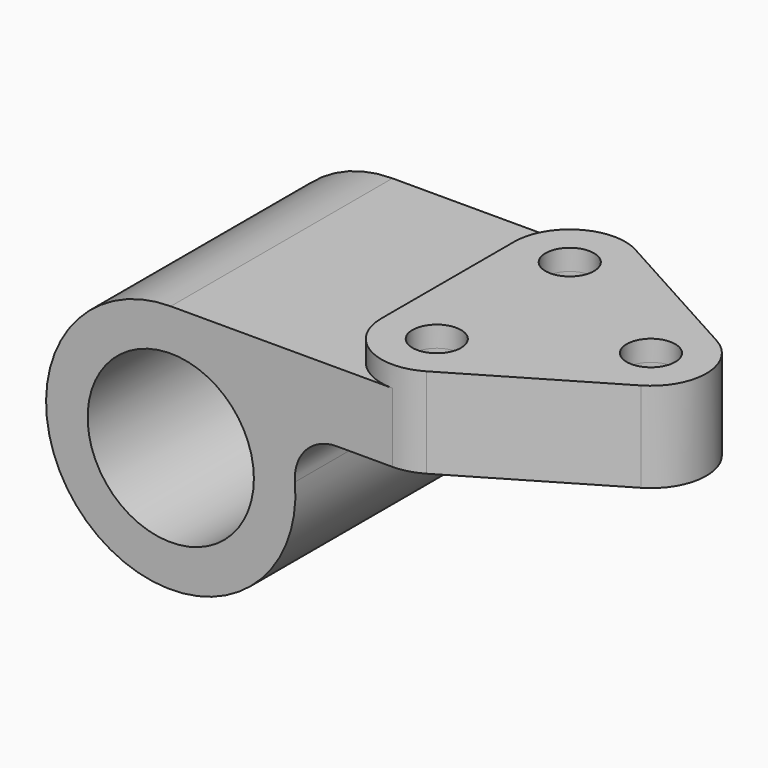
from build123d import *

# Parameters (mm, degrees)
F0_R     = 19.05
F1_DEPTH = 31.75
F2_R     = 5.5626
F3_DEPTH = 4.7752
F4_DEPTH = 57.151


with BuildPart() as f1:
    # F0 (on Front) → F1 (new body, symmetric)
    with BuildSketch(Plane.XZ):
        with BuildLine():
            Line((139.5674778593, 28.575), (0, 28.575))
            ThreePointArc((0, 28.575), (-19.345366451, -21.0306305629), (28.4756083945, 2.38125))
            ThreePointArc((28.4756083945, 2.38125), (30.9572676717, 9.6234554837), (37.9674778593, 12.7))
            Line((37.9674778593, 12.7), (139.5674778593, 12.7))
            Line((139.5674778593, 12.7), (139.5674778593, 28.575))
        make_face()
        Circle(F0_R, mode=Mode.SUBTRACT)
    extrude(amount=F1_DEPTH, both=True)

    # F2 (on face) → F3 (join)
    with BuildSketch(Plane.XY.offset(28.575)):
        with BuildLine():
            ThreePointArc((56.9407035424, 30.1667333333), (44.3462001498, 29.9879370767), (38.1, 19.05))
            Line((38.1, 19.05), (38.1, -19.05))
            ThreePointArc((38.1, -19.05), (44.5021137711, -30.078446357), (57.2537998502, -29.9879370767))
            Line((57.2537998502, -29.9879370767), (90.6039998502, -10.3100477039))
            ThreePointArc((90.6039998502, -10.3100477039), (96.8489204336, 0.8081651333), (90.2909035424, 11.7446227062))
            Line((90.2909035424, 11.7446227062), (56.9407035424, 30.1667333333))
        make_face()
        with Locations((50.8, -19.05)):
            Circle(F2_R, mode=Mode.SUBTRACT)
        with Locations((50.8, 19.05)):
            Circle(F2_R, mode=Mode.SUBTRACT)
        with Locations((84.1502, 0.6278893728)):
            Circle(F2_R, mode=Mode.SUBTRACT)
    extrude(amount=F3_DEPTH)

    # F4 (cut, through all): faces of the model
    f4_faces = [f1.faces().sort_by_distance(p)[0] for p in [
        (50.8, 19.05, 28.575),
        (84.1502, 0.6278893728, 28.575),
        (50.8, -19.05, 28.575),
        (108.2569186548, -0.1131496347, 28.575),
    ]]
    extrude(f4_faces, amount=-F4_DEPTH, mode=Mode.SUBTRACT)


solid = f1.part
